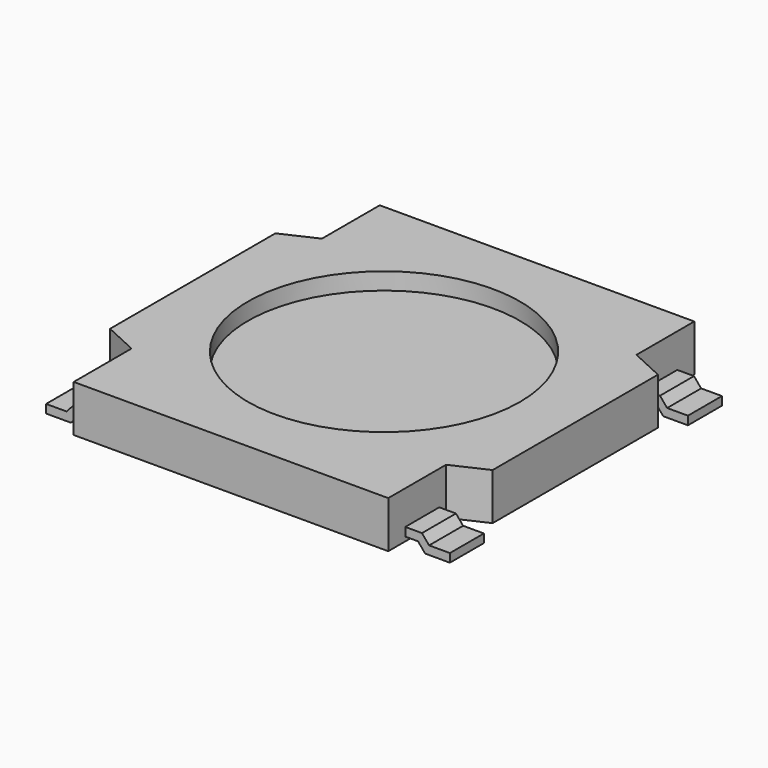
from build123d import *

# Parameters (mm, degrees)
SKETCH_W                   = 4.5
SKETCH_H                   = 4.5
PAD_DEPTH                  = 0.55
POCKET_DEPTH               = 13.326367
POCKET_MIRRORED_2_DEPTH    = 13.326367
SKETCH002_R                = 1.6
POCKET001_DEPTH            = 0.2
PAD001_DEPTH               = 0.25
PAD001_MIRRORED002_2_DEPTH = 0.25


with BuildPart() as part:
    # Sketch → Pad (new body)
    with BuildSketch(Plane.XY):
        Rectangle(SKETCH_W, SKETCH_H)
    extrude(amount=PAD_DEPTH)

    # Sketch001 → Pocket (cut, through all)
    with BuildSketch(Plane.XY):
        Polygon((-1.85, 2.5), (-1.85, 1.4), (-2.5, 1.1), (-2.5, 2.5), align=None)
    pocket = extrude(amount=POCKET_DEPTH, mode=Mode.SUBTRACT)

    # Sketch001 Mirrored 2 → Pocket Mirrored 2 (cut, through all)
    with BuildSketch(Plane(origin=(0, 0, 0), x_dir=(1, 0, 0), z_dir=(0, 0, -1))):
        Polygon((-1.85, 2.5), (-1.85, 1.4), (-2.5, 1.1), (-2.5, 2.5), align=None)
    pocket_mirrored_2 = extrude(amount=-POCKET_MIRRORED_2_DEPTH, mode=Mode.SUBTRACT)

    # Mirrored001: Pocket, Pocket Mirrored 2 across YZ
    add(pocket.mirror(Plane.YZ), mode=Mode.SUBTRACT)
    add(pocket_mirrored_2.mirror(Plane.YZ), mode=Mode.SUBTRACT)

    # Sketch002 (on Face4 of MultiTransform) → Pocket001 (cut)
    with BuildSketch(Plane.XY.offset(0.55)):
        Circle(SKETCH002_R)
    extrude(amount=-POCKET001_DEPTH, mode=Mode.SUBTRACT)

    # Sketch003 (on DatumPlane) → Pad001 (join, symmetric)
    with BuildSketch(Plane.XZ.offset(-1.75)):
        Polygon((-2.375, -0.05), (-2.375, 0.05), (-2.130541, 0.05), (-2.046631, 0.15), (-1.755541, 0.15), (-1.755541, 0.05), (-2, 0.05), (-2.08391, -0.05), align=None)
    pad001 = extrude(amount=PAD001_DEPTH, both=True)

    # Sketch003 Mirrored002 2 → Pad001 Mirrored002 2 (add, symmetric)
    with BuildSketch(Plane.XZ.offset(1.75)):
        Polygon((-2.375, -0.05), (-2.375, 0.05), (-2.130541, 0.05), (-2.046631, 0.15), (-1.755541, 0.15), (-1.755541, 0.05), (-2, 0.05), (-2.08391, -0.05), align=None)
    pad001_mirrored002_2 = extrude(amount=-PAD001_MIRRORED002_2_DEPTH, both=True)

    # Mirrored003: Pad001, Pad001 Mirrored002 2 across YZ
    add(pad001.mirror(Plane.YZ))
    add(pad001_mirrored002_2.mirror(Plane.YZ))


solid = part.part
